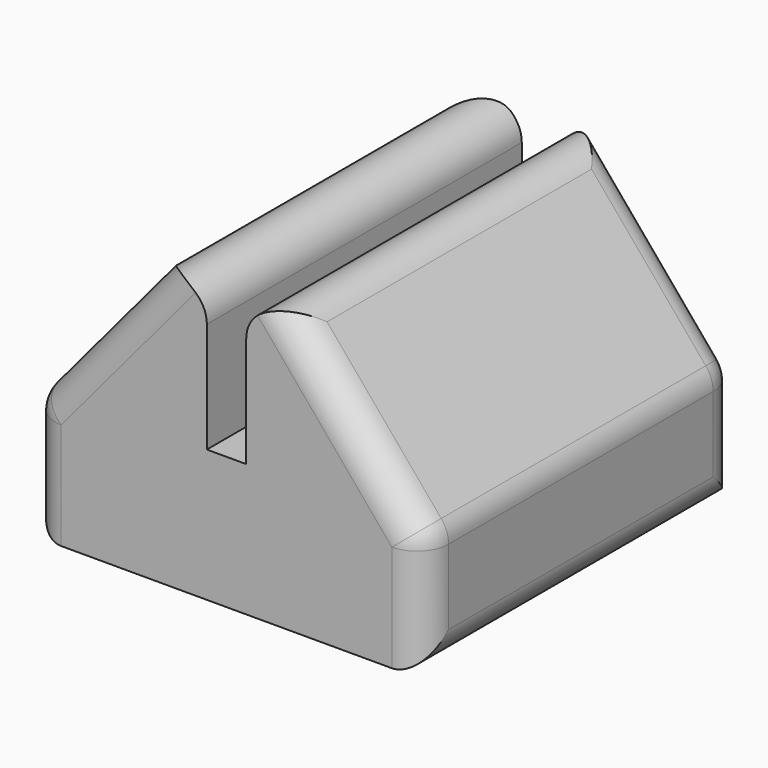
from build123d import *

# Parameters (mm, degrees)
F1_DEPTH = 25
F2_R     = 2
F3_R     = 2


with BuildPart() as f1:
    # F0 (on Front) → F1 (new body)
    with BuildSketch(Plane.XZ):
        Polygon((-12.5, 7.5), (-12.5, 0), (12.5, 0), (12.5, 7.5), (1.25, 20.904757), (1.25, 8.404757), (-1.25, 8.404757), (-1.25, 20.904757), align=None)
    extrude(amount=F1_DEPTH)

    # F2
    f2_edges = [f1.edges().sort_by_distance(p)[0] for p in [
        (12.5, -12.5, 7.5),
        (1.25, -12.5, 20.904757),
        (6.875, 0, 14.202378),
        (6.875, -25, 14.202378),
        (12.5, -12.5, 0),
        (12.5, 0, 3.75),
        (12.5, -25, 3.75),
    ]]
    fillet(f2_edges, radius=F2_R)

    # F3
    f3_edges = [f1.edges().sort_by_distance(p)[0] for p in [
        (-12.5, -12.5, 7.5),
        (-12.5, -12.5, 0),
        (-12.5, 0, 3.75),
        (-12.5, -25, 3.75),
        (-1.25, -12.5, 20.904757),
        (-6.875, 0, 14.202378),
        (-6.875, -25, 14.202378),
    ]]
    fillet(f3_edges, radius=F3_R)


solid = f1.part
